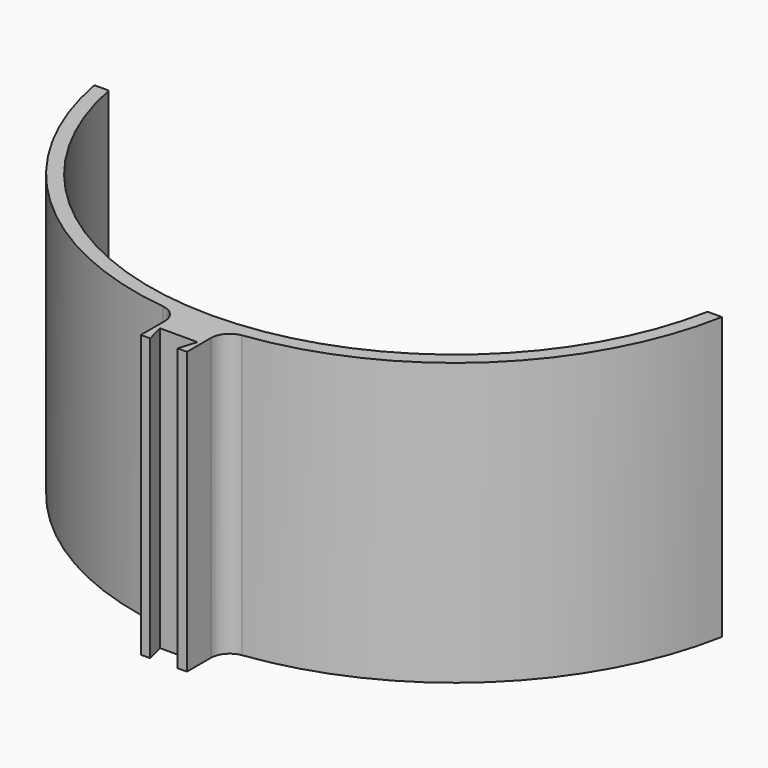
from build123d import *

# Parameters (mm, degrees)
F1_DEPTH = 38.1
F2_R     = 5.08


with BuildPart() as f1:
    # F0 (on Top) → F1 (new body, symmetric)
    with BuildSketch(Plane.XY):
        with BuildLine():
            ThreePointArc((81.030455, -15.766034), (0, -82.55), (-81.030455, -15.766034))
            Line((-81.030455, -15.766034), (-84.908667, -15.766034))
            ThreePointArc((-84.908667, -15.766034), (-57.430588, -64.496335), (-5.852405, -86.16147))
            Line((-5.852405, -86.16147), (-5.852405, -98.86147))
            Line((-5.852405, -98.86147), (-3.312405, -98.86147))
            Line((-3.312405, -98.86147), (-4.620644, -93.952814))
            Line((-4.620644, -93.952814), (5.539356, -93.952814))
            Line((5.539356, -93.952814), (4.046382, -98.808473))
            Line((4.046382, -98.808473), (6.586382, -98.808473))
            Line((6.586382, -98.808473), (6.586382, -86.108473))
            ThreePointArc((6.586382, -86.108473), (57.704858, -64.251062), (84.908667, -15.766034))
            Line((84.908667, -15.766034), (81.030455, -15.766034))
        make_face()
    extrude(amount=F1_DEPTH, both=True)

    # F2
    f2_edges = [f1.edges().sort_by_distance(p)[0] for p in [
        (6.586382, -86.108473, 0),
        (-5.852405, -86.16147, 0),
    ]]
    fillet(f2_edges, radius=F2_R)


solid = f1.part
